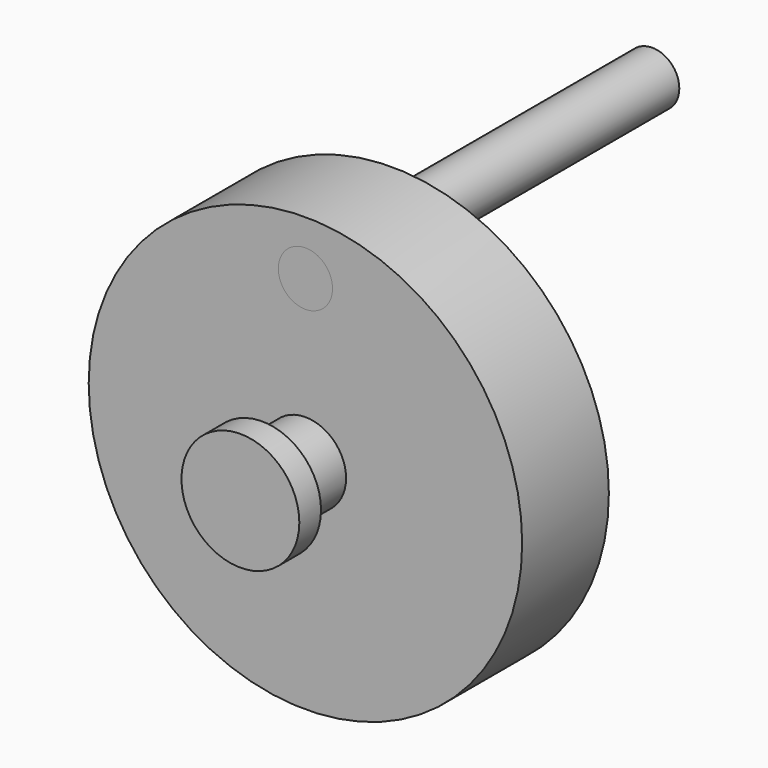
from build123d import *

# Parameters (mm, degrees)
F0_R      = 50.8
F1_DEPTH  = 25.4
F2_R      = 9.525
F3_DEPTH  = 12.7
F4_R      = 5.08
F5_DEPTH  = 50.8
F6_R      = 6.35
F7_DEPTH  = 25.4
F8_DEPTH  = 101.6
F9_R      = 13.81125
F10_DEPTH = 6.35


with BuildPart() as f1:
    # F0 (on Front) → F1 (new body)
    with BuildSketch(Plane.XZ):
        Circle(F0_R)
    extrude(amount=F1_DEPTH)

    # F2 (on face) → F3 (join)
    with BuildSketch(Plane.XZ.offset(25.4)):
        Circle(F2_R)
    extrude(amount=F3_DEPTH)

    # F4 (on face) → F5 (cut)
    with BuildSketch(Plane(origin=(0, 0, 0), x_dir=(-1, 0, 0), z_dir=(0, 1, 0))):
        Circle(F4_R)
    extrude(amount=-F5_DEPTH, mode=Mode.SUBTRACT)

    # F6 (on face) → F7 (cut)
    with BuildSketch(Plane.XZ.offset(25.4)):
        with Locations((0, 38.1)):
            Circle(F6_R)
    extrude(amount=-F7_DEPTH, mode=Mode.SUBTRACT)


with BuildPart() as f8:
    # F6 (on face) → F8 (new body)
    with BuildSketch(Plane.XZ.offset(25.4)):
        with Locations((0, 38.1)):
            Circle(F6_R)
    extrude(amount=-F8_DEPTH)


with BuildPart() as f10:
    # F9 (on face) → F10 (new body)
    with BuildSketch(Plane.XZ.offset(38.1)):
        Circle(F9_R)
    extrude(amount=F10_DEPTH)


solid = Compound([f1.part, f8.part, f10.part])
